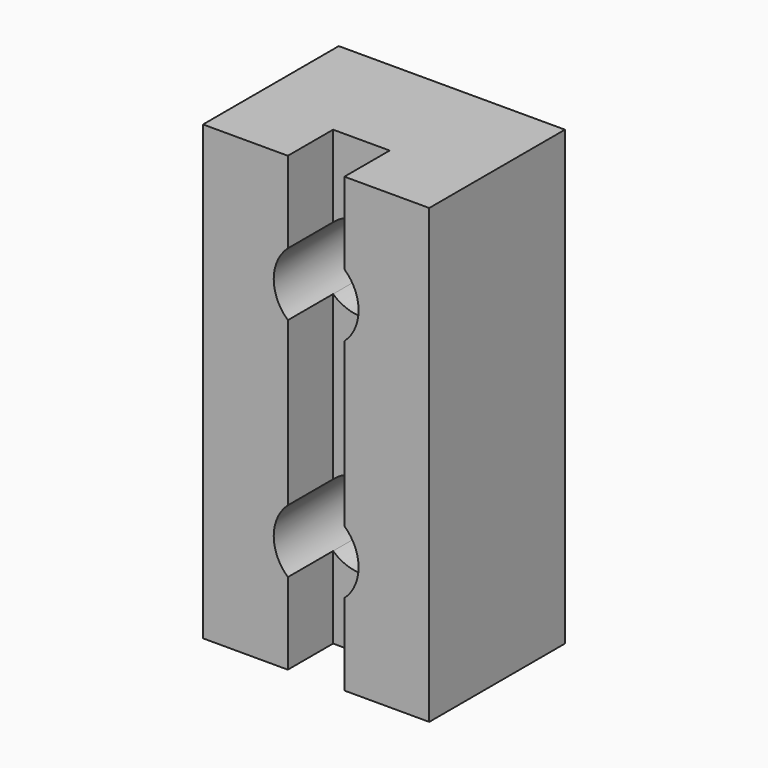
from build123d import *

# Parameters (mm, degrees)
F1_DEPTH = 50.8
F3_DEPTH = 11.1125


with BuildPart() as f1:
    # F0 (on Top) → F1 (new body)
    with BuildSketch(Plane.XY):
        Polygon((12.7, -9.525), (12.7, 9.525), (-12.7, 9.525), (-12.7, -9.525), (-3.175, -9.525), (-3.175, -3.175), (3.175, -3.175), (3.175, -9.525), align=None)
    extrude(amount=F1_DEPTH)

    # F2 (on face) → F3 (cut)
    with BuildSketch(Plane.XZ.offset(9.525)):
        with BuildLine():
            ThreePointArc((-3.175, 34.550242), (1.944282, 33.752452), (4.7625, 38.1))
            ThreePointArc((4.7625, 38.1), (1.944282, 42.447548), (-3.175, 41.649758))
            Line((-3.175, 41.649758), (-3.175, 34.550242))
        make_face()
        with BuildLine():
            Line((-3.175, 34.550242), (-3.175, 41.649758))
            ThreePointArc((-3.175, 41.649758), (-4.7625, 38.1), (-3.175, 34.550242))
        make_face()
        with BuildLine():
            Line((-3.175, 9.150242), (-3.175, 16.249758))
            ThreePointArc((-3.175, 16.249758), (-4.7625, 12.7), (-3.175, 9.150242))
        make_face()
        with BuildLine():
            ThreePointArc((4.7625, 12.7), (1.944282, 17.047548), (-3.175, 16.249758))
            Line((-3.175, 16.249758), (-3.175, 9.150242))
            ThreePointArc((-3.175, 9.150242), (1.944282, 8.352452), (4.7625, 12.7))
        make_face()
    extrude(amount=-F3_DEPTH, mode=Mode.SUBTRACT)


solid = f1.part
